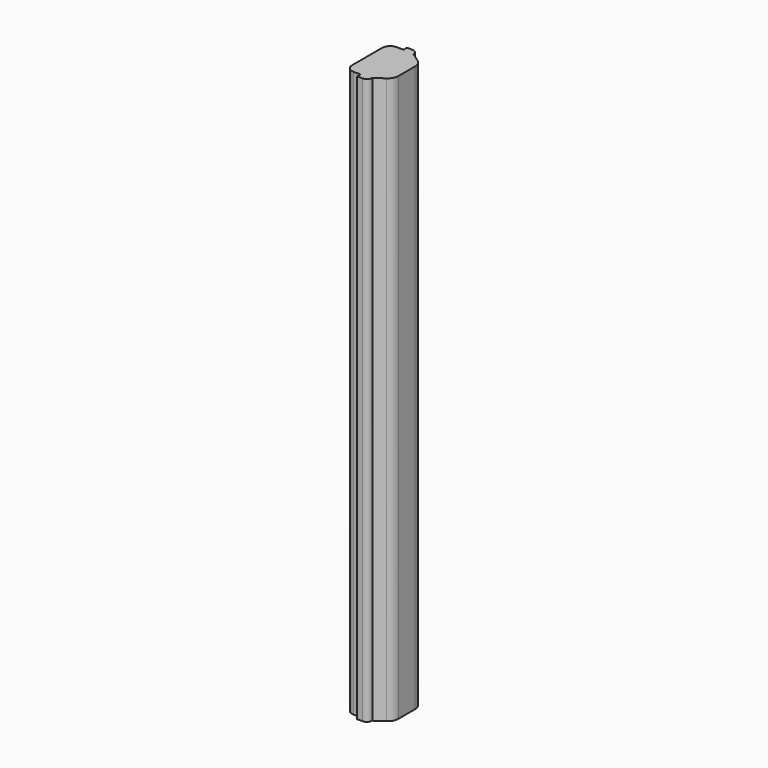
from build123d import *

# Parameters (mm, degrees)
F1_DEPTH = 1055.5


with BuildPart() as f1:
    # F0 (on Top) → F1 (new body)
    with BuildSketch(Plane.XY):
        with BuildLine():
            Line((252.274462, -39.669331), (239.274462, -39.669331))
            ThreePointArc((239.274462, -39.669331), (228.667861, -44.062729), (224.274462, -54.669331))
            Line((224.274462, -54.669331), (224.274462, -124.669331))
            ThreePointArc((224.274462, -124.669331), (228.667861, -135.275933), (239.274462, -139.669331))
            Line((239.274462, -139.669331), (252.274462, -139.669331))
            Line((252.274462, -139.669331), (252.274462, -147.669331))
            Line((252.274462, -147.669331), (262.274462, -147.669331))
            ThreePointArc((262.274462, -147.669331), (269.34553, -144.740399), (272.274462, -137.669331))
            Line((272.274462, -137.669331), (289.658662, -125.634116))
            ThreePointArc((289.658662, -125.634116), (295.990049, -118.472406), (298.274462, -109.190272))
            Line((298.274462, -109.190272), (298.274462, -70.14839))
            ThreePointArc((298.274462, -70.14839), (295.990049, -60.866256), (289.658662, -53.704546))
            Line((289.658662, -53.704546), (272.274462, -41.669331))
            ThreePointArc((272.274462, -41.669331), (269.34553, -34.598263), (262.274462, -31.669331))
            Line((262.274462, -31.669331), (252.274462, -31.669331))
            Line((252.274462, -31.669331), (252.274462, -39.669331))
        make_face()
    extrude(amount=F1_DEPTH)


solid = f1.part
